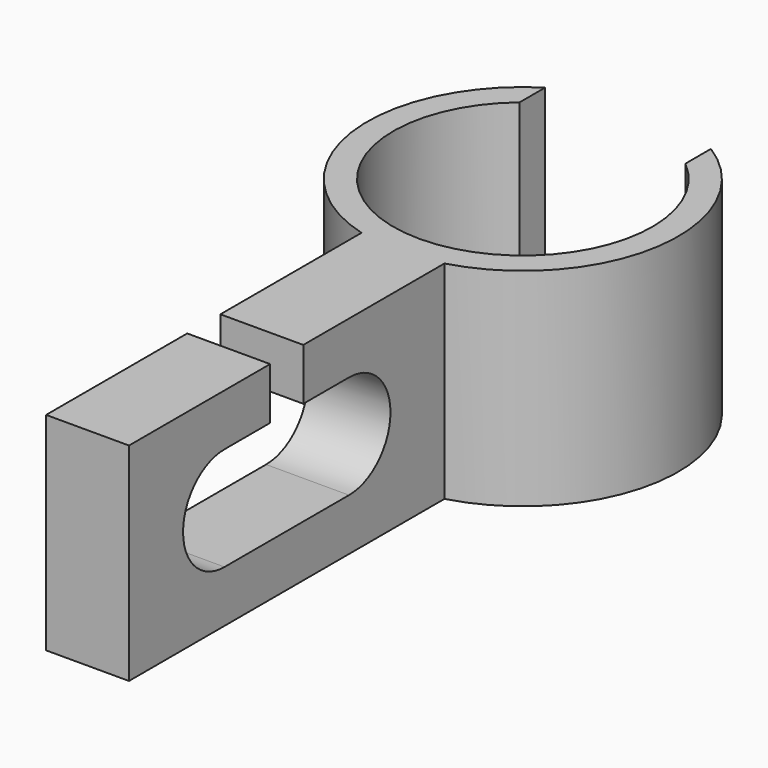
from build123d import *

# Parameters (mm, degrees)
F1_DEPTH = 12.7
F3_DEPTH = 12.7
F5_DEPTH = 5.08
F6_W     = 5.08
F6_H     = 2.54
F7_DEPTH = 3.175


with BuildPart() as f1:
    # F0 (on Top) → F1 (new body)
    with BuildSketch(Plane.XY):
        with BuildLine():
            Line((-5.08, 6.0989758362), (-5.08, 8.0572467382))
            ThreePointArc((-5.08, 8.0572467382), (0, -9.525), (5.08, 8.0572467382))
            Line((5.08, 8.0572467382), (5.08, 6.0989758362))
            ThreePointArc((5.08, 6.0989758362), (0, -7.9375), (-5.08, 6.0989758362))
        make_face()
    extrude(amount=F1_DEPTH)

    # F2 (on face) → F3 (join, through all)
    with BuildSketch(Plane.XY.offset(12.7)):
        with BuildLine():
            ThreePointArc((2.54, -9.1800885072), (0, -9.525), (-2.54, -9.1800885072))
            Line((-2.54, -9.1800885072), (-2.54, -33.3375))
            Line((-2.54, -33.3375), (2.54, -33.3375))
            Line((2.54, -33.3375), (2.54, -9.1800885072))
        make_face()
    extrude(amount=-F3_DEPTH)

    # F4 (on face) → F5 (cut, through all)
    with BuildSketch(Plane.YZ.offset(2.54)):
        with BuildLine():
            Line((-16.4886742536, 9.525), (-26.0212942536, 9.525))
            ThreePointArc((-26.0212942536, 9.525), (-29.1962942536, 6.35), (-26.0212942536, 3.175))
            Line((-26.0212942536, 3.175), (-16.4886742536, 3.175))
            ThreePointArc((-16.4886742536, 3.175), (-13.3136742536, 6.35), (-16.4886742536, 9.525))
        make_face()
    extrude(amount=-F5_DEPTH, mode=Mode.SUBTRACT)

    # F6 (on face) → F7 (cut, through all)
    with BuildSketch(Plane.XY.offset(12.7)):
        with Locations((0, -21.2587942536)):
            Rectangle(F6_W, F6_H)
    extrude(amount=-F7_DEPTH, mode=Mode.SUBTRACT)


solid = f1.part
